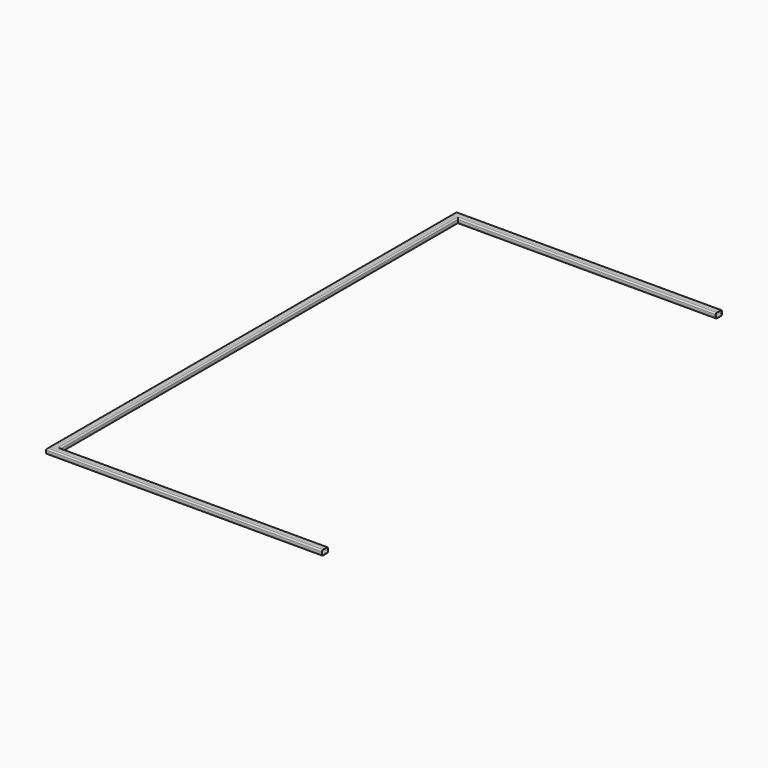
from build123d import *


with BuildPart() as f2:
    # F2: sweep along a path in F1
    with BuildLine(Plane.XY) as f2_path:
        Line((0, 0), (-1056, 0))
        Line((-1056, 0), (-1056, 1962))
        Line((-1056, 1962), (-40, 1962))
    # F0 (on Right) → F2 (sweep)
    with BuildSketch(Plane.YZ):
        with BuildLine():
            ThreePointArc((15, 5), (13.5355339059, 8.5355339059), (10, 10))
            Line((10, 10), (-10, 10))
            ThreePointArc((-10, 10), (-13.5355339059, 8.5355339059), (-15, 5))
            Line((-15, 5), (-15, -5))
            ThreePointArc((-15, -5), (-13.5355339059, -8.5355339059), (-10, -10))
            Line((-10, -10), (10, -10))
            ThreePointArc((10, -10), (13.5355339059, -8.5355339059), (15, -5))
            Line((15, -5), (15, 5))
        make_face()
        with BuildLine():
            ThreePointArc((10, 9), (12.8284271247, 7.8284271247), (14, 5))
            Line((14, 5), (14, -5))
            ThreePointArc((14, -5), (12.8284271247, -7.8284271247), (10, -9))
            Line((10, -9), (-10, -9))
            ThreePointArc((-10, -9), (-12.8284271247, -7.8284271247), (-14, -5))
            Line((-14, -5), (-14, 5))
            ThreePointArc((-14, 5), (-12.8284271247, 7.8284271247), (-10, 9))
            Line((-10, 9), (10, 9))
        make_face(mode=Mode.SUBTRACT)
    sweep(path=f2_path.line, transition=Transition.RIGHT)


solid = f2.part
